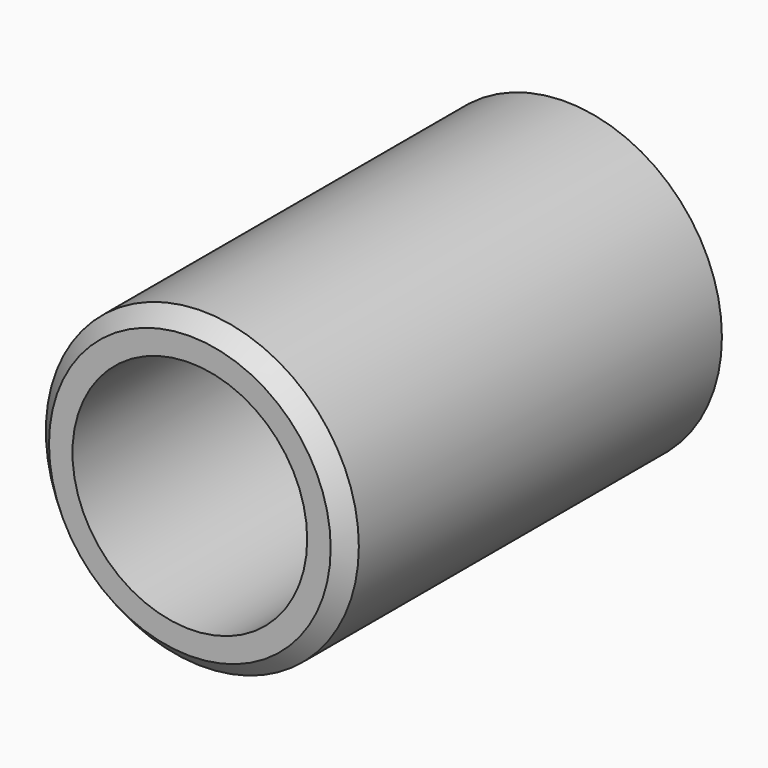
from build123d import *

# Parameters (mm, degrees)
F0_R     = 25.4
F1_DEPTH = 38.1
F2_R     = 19.05
F3_DEPTH = 76.201
F4_SIZE  = 2.54
F5_T     = -0.254


with BuildPart() as f1:
    # F0 (on Front) → F1 (new body, symmetric)
    with BuildSketch(Plane.XZ):
        Circle(F0_R)
    extrude(amount=F1_DEPTH, both=True)

    # F2 (on face) → F3 (cut, through all)
    with BuildSketch(Plane.XZ.offset(38.1)):
        Circle(F2_R)
    extrude(amount=-F3_DEPTH, mode=Mode.SUBTRACT)

    # F4
    f4_edges = [f1.edges().sort_by_distance(p)[0] for p in [
        (-25.4, -38.1, 0),
    ]]
    chamfer(f4_edges, length=F4_SIZE)

    # F5
    f5_openings = [f1.faces().sort_by_distance(p)[0] for p in [
        (-24.68158, 38.1, 0),
    ]]
    offset(amount=F5_T, openings=f5_openings)


solid = f1.part
